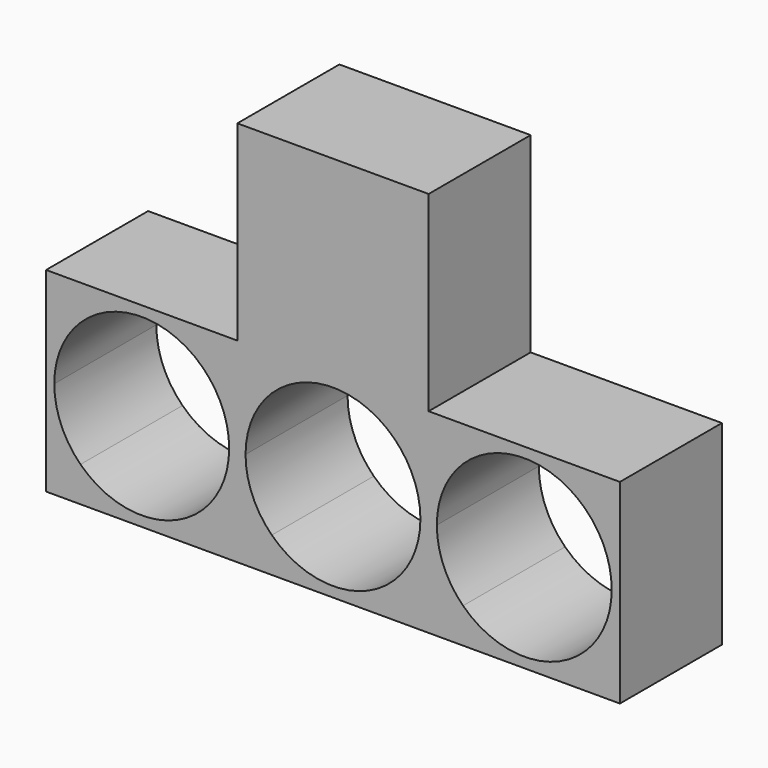
from build123d import *

# Parameters (mm, degrees)
F0_W     = 10.5001455228
F0_H     = 10.5
F1_DEPTH = 7


with BuildPart() as f1:
    # F0 (on Front) → F1 (new body)
    with BuildSketch(Plane.XZ):
        with BuildLine():
            Line((1.8900261941, 1.92816), (0, 0))
            Line((0, 0), (10.5001455228, 0))
            Line((10.5001455228, 0), (8.6101193287, 1.92816))
            ThreePointArc((8.6101193287, 1.92816), (5.2500727614, 0.556), (1.8900261941, 1.92816))
        make_face()
        with BuildLine():
            Line((0, 5.356), (0, 0))
            Line((0, 0), (1.8900261941, 1.92816))
            ThreePointArc((1.8900261941, 1.92816), (0.8246787946, 3.4969980531), (0.4500727614, 5.356))
            Line((0.4500727614, 5.356), (0, 5.356))
        make_face()
        with BuildLine():
            Line((12.3901717169, 1.92816), (10.5001455228, 0))
            Line((10.5001455228, 0), (21.0002910456, 0))
            Line((21.0002910456, 0), (19.1102648515, 1.92816))
            ThreePointArc((19.1102648515, 1.92816), (15.7502182842, 0.556), (12.3901717169, 1.92816))
        make_face()
        with BuildLine():
            Line((8.6101193287, 1.92816), (10.5001455228, 0))
            Line((10.5001455228, 0), (10.5001455228, 5.356))
            Line((10.5001455228, 5.356), (10.0500727614, 5.356))
            ThreePointArc((10.0500727614, 5.356), (9.6754667282, 3.4969980531), (8.6101193287, 1.92816))
        make_face()
        with BuildLine():
            Line((10.5001455228, 5.356), (10.5001455228, 0))
            Line((10.5001455228, 0), (12.3901717169, 1.92816))
            ThreePointArc((12.3901717169, 1.92816), (11.3248243174, 3.4969980531), (10.9502182842, 5.356))
            Line((10.9502182842, 5.356), (10.5001455228, 5.356))
        make_face()
        with BuildLine():
            Line((0, 10.712), (0, 5.356))
            Line((0, 5.356), (0.4500727614, 5.356))
            ThreePointArc((0.4500727614, 5.356), (0.8246787946, 7.2150019469), (1.8900261941, 8.78384))
            Line((1.8900261941, 8.78384), (0, 10.712))
        make_face()
        with BuildLine():
            Line((22.8903172397, 1.92816), (21.0002910456, 0))
            Line((21.0002910456, 0), (31.5004365684, 0))
            Line((31.5004365684, 0), (29.6104103743, 1.92816))
            ThreePointArc((29.6104103743, 1.92816), (26.250363807, 0.556), (22.8903172397, 1.92816))
        make_face()
        with BuildLine():
            Line((19.1102648515, 1.92816), (21.0002910456, 0))
            Line((21.0002910456, 0), (21.0002910456, 5.356))
            Line((21.0002910456, 5.356), (20.5502182842, 5.356))
            ThreePointArc((20.5502182842, 5.356), (20.175612251, 3.4969980531), (19.1102648515, 1.92816))
        make_face()
        with BuildLine():
            Line((21.0002910456, 5.356), (21.0002910456, 0))
            Line((21.0002910456, 0), (22.8903172397, 1.92816))
            ThreePointArc((22.8903172397, 1.92816), (21.8249698402, 3.4969980531), (21.450363807, 5.356))
            Line((21.450363807, 5.356), (21.0002910456, 5.356))
        make_face()
        with BuildLine():
            Line((10.5001455228, 10.712), (10.5001455228, 5.356))
            Line((10.5001455228, 5.356), (10.9502182842, 5.356))
            ThreePointArc((10.9502182842, 5.356), (11.3248243174, 7.2150019469), (12.3901717169, 8.78384))
            Line((12.3901717169, 8.78384), (10.5001455228, 10.712))
        make_face()
        with BuildLine():
            Line((10.0500727614, 5.356), (10.5001455228, 5.356))
            Line((10.5001455228, 5.356), (10.5001455228, 10.712))
            Line((10.5001455228, 10.712), (8.6101193287, 8.78384))
            ThreePointArc((8.6101193287, 8.78384), (9.6754667282, 7.2150019469), (10.0500727614, 5.356))
        make_face()
        with BuildLine():
            Line((10.5001455228, 10.712), (0, 10.712))
            Line((0, 10.712), (1.8900261941, 8.78384))
            ThreePointArc((1.8900261941, 8.78384), (5.2500727614, 10.156), (8.6101193287, 8.78384))
            Line((8.6101193287, 8.78384), (10.5001455228, 10.712))
        make_face()
        with BuildLine():
            Line((29.6104103743, 1.92816), (31.5004365684, 0))
            Line((31.5004365684, 0), (31.5004365684, 5.356))
            Line((31.5004365684, 5.356), (31.050363807, 5.356))
            ThreePointArc((31.050363807, 5.356), (30.6757577738, 3.4969980531), (29.6104103743, 1.92816))
        make_face()
        with BuildLine():
            Line((21.0002910456, 10.712), (21.0002910456, 5.356))
            Line((21.0002910456, 5.356), (21.450363807, 5.356))
            ThreePointArc((21.450363807, 5.356), (21.8249698402, 7.2150019469), (22.8903172397, 8.78384))
            Line((22.8903172397, 8.78384), (21.0002910456, 10.712))
        make_face()
        with BuildLine():
            Line((20.5502182842, 5.356), (21.0002910456, 5.356))
            Line((21.0002910456, 5.356), (21.0002910456, 10.712))
            Line((21.0002910456, 10.712), (19.1102648515, 8.78384))
            ThreePointArc((19.1102648515, 8.78384), (20.175612251, 7.2150019469), (20.5502182842, 5.356))
        make_face()
        with Locations((15.7502182842, 15.962)):
            Rectangle(F0_W, F0_H)
        with BuildLine():
            Line((21.0002910456, 10.712), (10.5001455228, 10.712))
            Line((10.5001455228, 10.712), (12.3901717169, 8.78384))
            ThreePointArc((12.3901717169, 8.78384), (15.7502182842, 10.156), (19.1102648515, 8.78384))
            Line((19.1102648515, 8.78384), (21.0002910456, 10.712))
        make_face()
        with BuildLine():
            Line((31.050363807, 5.356), (31.5004365684, 5.356))
            Line((31.5004365684, 5.356), (31.5004365684, 10.712))
            Line((31.5004365684, 10.712), (29.6104103743, 8.78384))
            ThreePointArc((29.6104103743, 8.78384), (30.6757577738, 7.2150019469), (31.050363807, 5.356))
        make_face()
        with BuildLine():
            Line((31.5004365684, 10.712), (21.0002910456, 10.712))
            Line((21.0002910456, 10.712), (22.8903172397, 8.78384))
            ThreePointArc((22.8903172397, 8.78384), (26.250363807, 10.156), (29.6104103743, 8.78384))
            Line((29.6104103743, 8.78384), (31.5004365684, 10.712))
        make_face()
    extrude(amount=F1_DEPTH)


solid = f1.part
